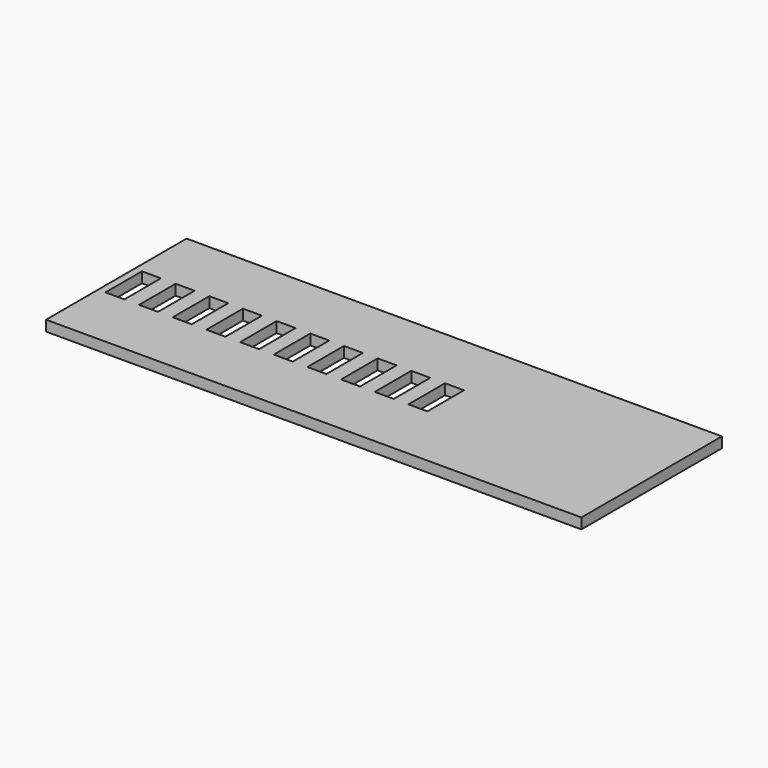
from build123d import *

# Parameters (mm, degrees)
F0_W     = 152.4
F0_H     = 50
F1_DEPTH = 3
F2_W     = 5.4
F2_H     = 13
F3_DEPTH = 3.001


with BuildPart() as f1:
    # F0 (on Top) → F1 (new body)
    with BuildSketch(Plane.XY):
        Rectangle(F0_W, F0_H)
    extrude(amount=F1_DEPTH)

    # F2 (on face) → F3 (cut, through all)
    with BuildSketch(Plane.XY.offset(3)):
        with Locations((-71.4075, 0)):
            Rectangle(F2_W, F2_H)
        with Locations((-61.8225, 0)):
            Rectangle(F2_W, F2_H)
        with Locations((-52.2375, 0)):
            Rectangle(F2_W, F2_H)
        with Locations((-42.6525, 0)):
            Rectangle(F2_W, F2_H)
        with Locations((-33.0675, 0)):
            Rectangle(F2_W, F2_H)
        with Locations((-23.4825, 0)):
            Rectangle(F2_W, F2_H)
        with Locations((-13.8975, 0)):
            Rectangle(F2_W, F2_H)
        with Locations((-4.3125, 0)):
            Rectangle(F2_W, F2_H)
        with Locations((5.2725, 0)):
            Rectangle(F2_W, F2_H)
        with Locations((14.8575, 0)):
            Rectangle(F2_W, F2_H)
    extrude(amount=-F3_DEPTH, mode=Mode.SUBTRACT)


solid = f1.part
